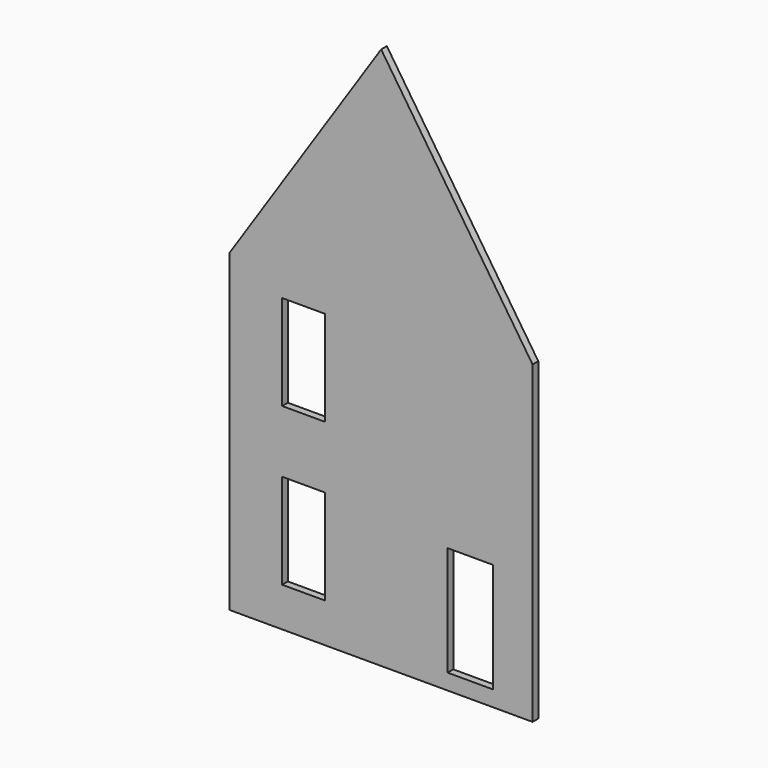
from build123d import *

# Parameters (mm, degrees)
F1_DEPTH = 138.27125
F2_W     = 831.83984
F2_H     = 1841.77305
F2_W_2   = 884.936
F2_H_2   = 2123.8464
F3_DEPTH = 138.27225


with BuildPart() as f1:
    # F0 (on Front) → F1 (new body)
    with BuildSketch(Plane.XZ):
        Polygon((0, 6096), (0, 0), (5867.4, 0), (5867.4, 6096), (2933.7, 10515.6), align=None)
    extrude(amount=F1_DEPTH)

    # F2 (on face) → F3 (cut, through all)
    with BuildSketch(Plane.XZ.offset(138.27125)):
        with Locations((1431.91992, 1682.886525)):
            Rectangle(F2_W, F2_H)
        with Locations((4662.932, 1366.7232)):
            Rectangle(F2_W_2, F2_H_2)
        with Locations((1431.91992, 4730.886525)):
            Rectangle(F2_W, F2_H)
    extrude(amount=-F3_DEPTH, mode=Mode.SUBTRACT)


solid = f1.part
